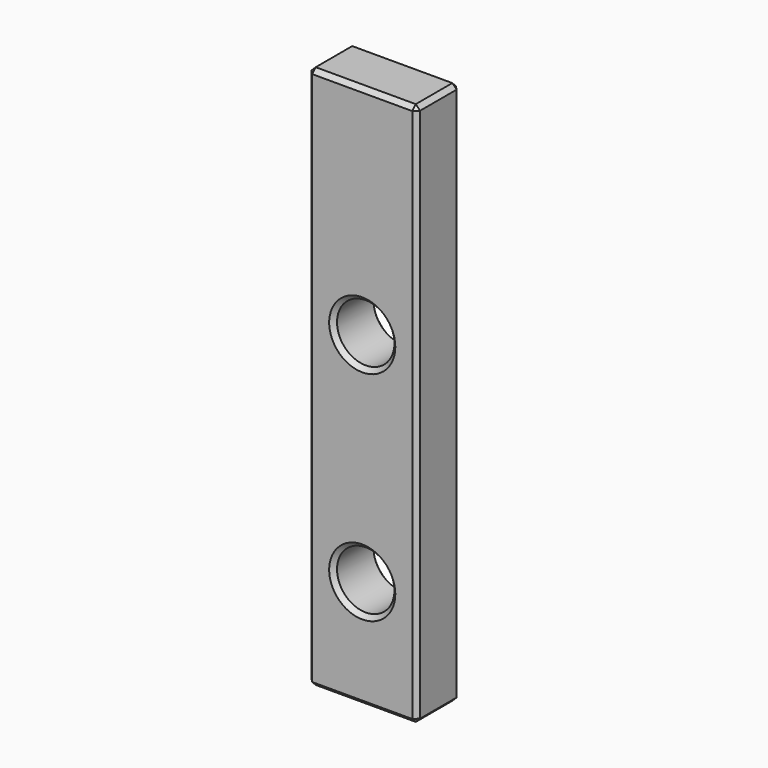
from build123d import *

# Parameters (mm, degrees)
F0_W     = 6.35
F0_H     = 31.75
F0_R     = 1.6764
F1_DEPTH = 3.175
F2_SIZE  = 0.254


with BuildPart() as f1:
    # F0 (on Front) → F1 (new body)
    with BuildSketch(Plane.XZ):
        Rectangle(F0_W, F0_H)
        with Locations((0, -9.525)):
            Circle(F0_R, mode=Mode.SUBTRACT)
        with Locations((0, 3.175)):
            Circle(F0_R, mode=Mode.SUBTRACT)
    extrude(amount=F1_DEPTH)

    # F2
    f2_edges = [f1.edges().sort_by_distance(p)[0] for p in [
        (-1.6764, -3.175, 3.175),
        (-1.6764, -3.175, -9.525),
        (3.175, -1.5875, -15.875),
        (-3.175, -1.5875, 15.875),
        (3.175, -1.5875, 15.875),
        (-1.6764, 0, -9.525),
        (-3.175, -1.5875, -15.875),
        (0, 0, -15.875),
        (0, -3.175, -15.875),
        (0, 0, 15.875),
        (0, -3.175, 15.875),
        (-3.175, 0, 0),
        (-3.175, -3.175, 0),
        (3.175, 0, 0),
        (3.175, -3.175, 0),
        (-1.6764, 0, 3.175),
    ]]
    chamfer(f2_edges, length=F2_SIZE)


solid = f1.part
